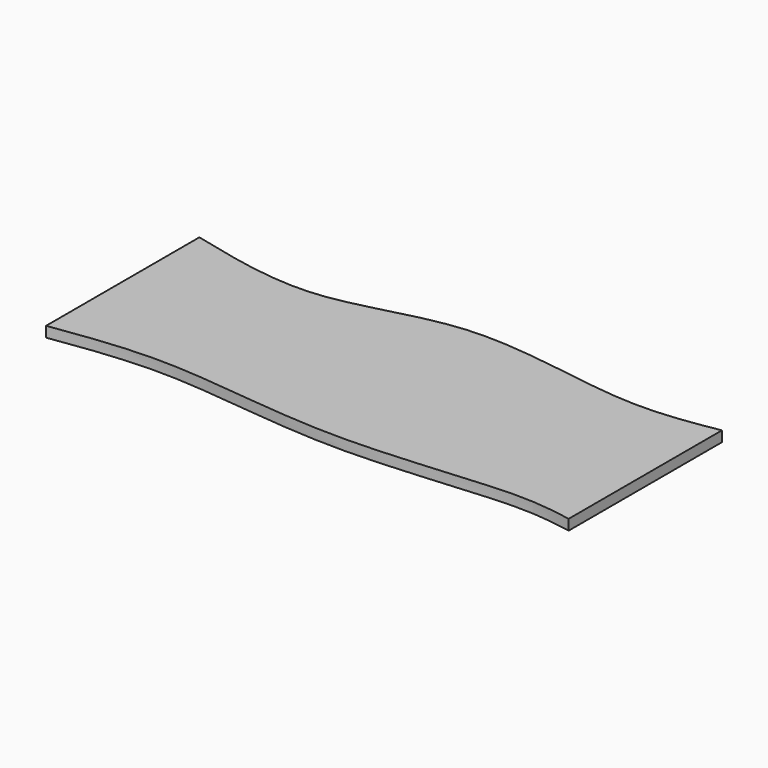
from build123d import *

# Parameters (mm, degrees)
F1_DEPTH = 30.48


with BuildPart() as f1:
    # F0 (on Top) → F1 (new body)
    with BuildSketch(Plane.XY):
        with BuildLine():
            Line((0, 558.8), (0, 0))
            add(Edge.make_bspline(
                [(0, 0), (108.078811601, 15.6123087742), (348.15239897, 50.291659139), (831.0742394846, -42.1795277306), (1343.6015708693, 32.1266044298), (1475.6915001467, 8.6031129698), (1524, 0)],
                knots=[0, 0, 0, 0, 0.2406203652, 0.5344858387, 0.8297501489, 1, 1, 1, 1], degree=3))
            Line((1524, 0), (1524, 558.8))
            add(Edge.make_bspline(
                [(0, 558.8), (128.9739344828, 526.9017443551), (388.3695104492, 462.747181431), (760.1981210065, 635.8049029082), (1243.4414567655, 511.0550253898), (1439.3990633357, 544.4027568205), (1524, 558.8)],
                knots=[0, 0, 0, 0, 0.2514546536, 0.5057318362, 0.7866092041, 1, 1, 1, 1], degree=3))
        make_face()
    extrude(amount=F1_DEPTH)


solid = f1.part
